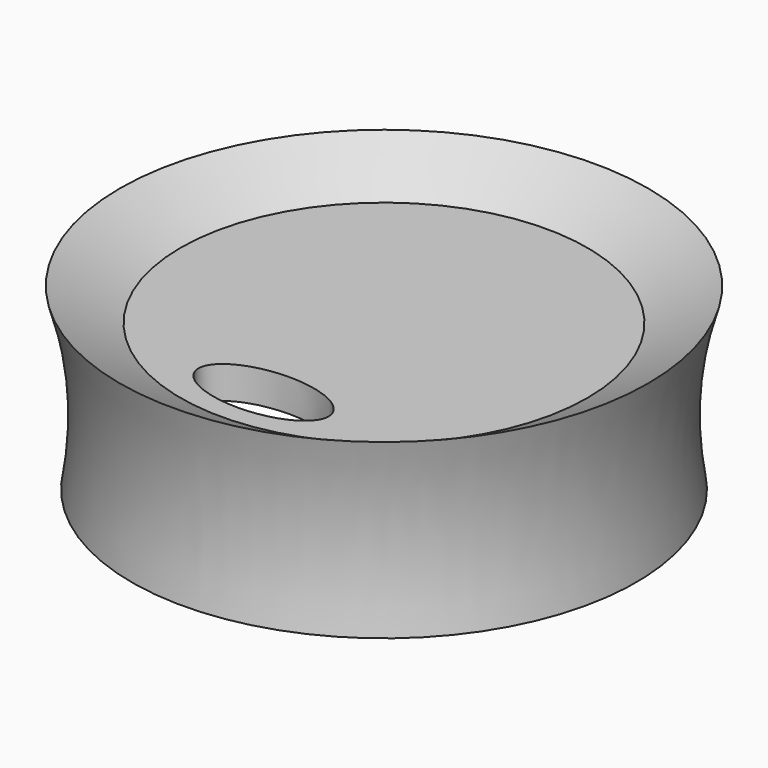
from build123d import *

# Parameters (mm, degrees)
F0_W     = 8.89
F0_H     = 5.08
F0_W_2   = 18.909738571
F3_DEPTH = 27.94


with BuildPart() as f2:
    # F0 (on Front) → F2 (revolve)
    with BuildSketch(Plane.XZ):
        with BuildLine():
            Line((-31.75, 12.3019401812), (-41.2276129638, 17.3819401812))
            ThreePointArc((-41.2276129638, 17.3819401812), (-38.6158644289, 3.5238319126), (-39.37, -10.5580598188))
            Line((-39.37, -10.5580598188), (-31.75, -10.5580598188))
            Line((-31.75, -10.5580598188), (-31.75, 7.2219401812))
            Line((-31.75, 7.2219401812), (-27.799738571, 7.2219401812))
            Line((-27.799738571, 7.2219401812), (-27.799738571, 12.3019401812))
            Line((-27.799738571, 12.3019401812), (-31.75, 12.3019401812))
        make_face()
        with Locations((-23.354738571, 9.7619401812)):
            Rectangle(F0_W, F0_H)
        with Locations((-9.4548692855, 9.7619401812)):
            Rectangle(F0_W_2, F0_H)
    revolve(axis=Axis((0, 0, 3.4119401812), (0, 0, -1)))

    # F1 (on Top) → F3 (cut)
    with BuildSketch(Plane.XY):
        with BuildLine():
            add(Edge.make_bspline(
                [(-10.16, -23.495), (-10.16, -32.3451804674), (5.08, -27.9200902337), (20.32, -23.495), (5.08, -19.0699097663), (-10.16, -14.6448195326), (-10.16, -23.495)],
                knots=[0, 0, 0, 2.0943951024, 2.0943951024, 4.1887902048, 4.1887902048, 6.2831853072, 6.2831853072, 6.2831853072], degree=2, weights=[1, 0.5, 1, 0.5, 1, 0.5, 1]))
        make_face()
    extrude(amount=F3_DEPTH, mode=Mode.SUBTRACT)


solid = f2.part
